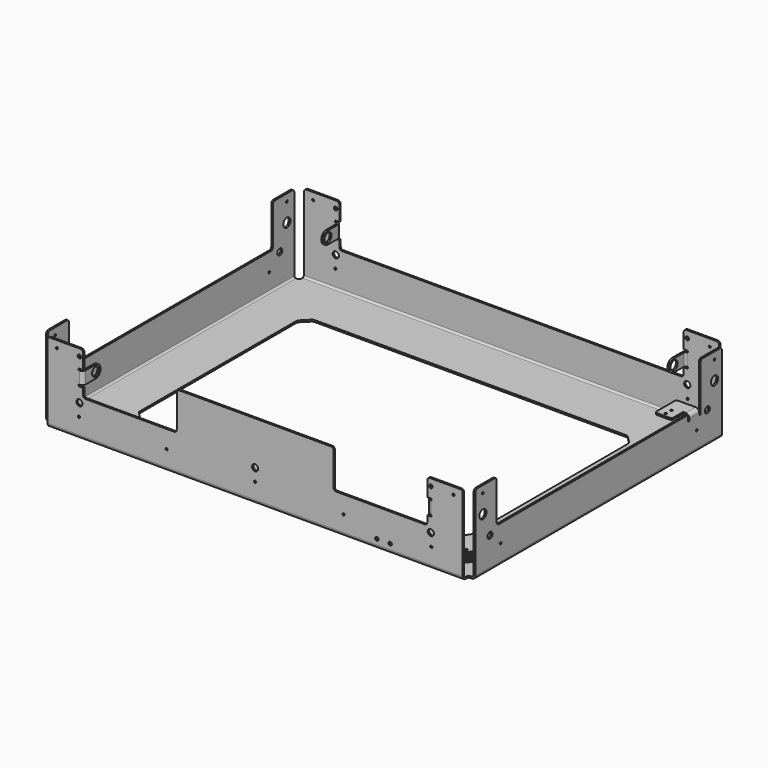
from build123d import *

# Parameters (mm, degrees)
PAD_DEPTH       = 2
SKETCH001_W     = 8
SKETCH001_H     = 8
POCKET_DEPTH    = 2.001
FILLET_R        = 2
SKETCH002_R     = 1.23
SKETCH002_R_2   = 5.05
SKETCH002_R_3   = 3.5
PAD001_DEPTH    = 2
SKETCH003_R     = 1.23
SKETCH003_R_2   = 3.5
SKETCH003_R_3   = 2
PAD002_DEPTH    = 2
FILLET001_R     = 3
POCKET001_DEPTH = 2.001
FILLET002_R     = 2
FILLET003_R     = 4
SKETCH005_W     = 177
SKETCH005_H     = 43
PAD003_DEPTH    = 2
FILLET004_R     = 3
SKETCH006_R     = 1.23
SKETCH006_R_2   = 3.5
SKETCH006_R_3   = 1.95
POCKET002_DEPTH = 5
SKETCH007_W     = 4
SKETCH007_H     = 2
POCKET003_DEPTH = 364.001
POCKET004_DEPTH = 364.001
SKETCH009_R     = 5.05
PAD004_DEPTH    = 2
SKETCH010_R     = 5.05
PAD005_DEPTH    = 2
FILLET005_R     = 4
FILLET006_R     = 2
POCKET005_DEPTH = 5
SKETCH012_R     = 1.23
PAD006_DEPTH    = 2
FILLET007_R     = 4
FILLET008_R     = 2
FILLET009_R     = 2
CHAMFER_SIZE    = 10
FILLET010_R     = 4


with BuildPart() as fillet001:
    # Sketch → Pad (new body)
    with BuildSketch(Plane.XY):
        Polygon((-242.5, 182), (0, 182), (0, 122), (-187.5, 122), (-187.5, 0), (-242.5, 0), align=None)
    extrude(amount=PAD_DEPTH)

    # Sketch001 → Pocket (cut, through all)
    with BuildSketch(Plane.XY.offset(2)):
        with Locations((-238.5, 178)):
            Rectangle(SKETCH001_W, SKETCH001_H)
    extrude(amount=-POCKET_DEPTH, mode=Mode.SUBTRACT)

    # Fillet
    fillet_edges = [fillet001.edges().sort_by_distance(p)[0] for p in [
        (-234.5, 174, 1),
    ]]
    fillet(fillet_edges, radius=FILLET_R)

    # Sketch002 → Pad001 (new body)
    with BuildSketch(Plane(origin=(-242.5, 0, 0), x_dir=(0, -1, 0), z_dir=(-1, 0, 0))):
        Polygon((-174, 0), (-174, 90), (-144, 90), (-144, 42), (0, 42), (0, 0), align=None)
        with Locations((-163.5, 82)):
            Circle(SKETCH002_R, mode=Mode.SUBTRACT)
        with Locations((-163.5, 61)):
            Circle(SKETCH002_R_2, mode=Mode.SUBTRACT)
        with Locations((-153.5, 36)):
            Circle(SKETCH002_R_3, mode=Mode.SUBTRACT)
        with Locations((-138.5, 22)):
            Circle(SKETCH002_R, mode=Mode.SUBTRACT)
    extrude(amount=-PAD001_DEPTH)

    # Sketch003 → Pad002 (new body)
    with BuildSketch(Plane(origin=(0, 182, 0), x_dir=(-1, 0, 0), z_dir=(0, 1, 0))):
        Polygon((234.5, 0), (234.5, 90), (194.5, 90), (194.5, 42), (0, 42), (0, 0), align=None)
        with Locations((199, 22)):
            Circle(SKETCH003_R, mode=Mode.SUBTRACT)
        with Locations((198.5, 36)):
            Circle(SKETCH003_R_2, mode=Mode.SUBTRACT)
        with Locations((224, 82)):
            Circle(SKETCH003_R, mode=Mode.SUBTRACT)
        with Locations((198.5, 82)):
            Circle(SKETCH003_R_3, mode=Mode.SUBTRACT)
    extrude(amount=-PAD002_DEPTH)

    # Fillet001
    fillet001_edges = [fillet001.edges().sort_by_distance(p)[0] for p in [
        (-194.5, 181, 42),
        (-194.5, 181, 90),
        (-234.5, 181, 90),
        (-241.5, 174, 90),
        (-241.5, 144, 42),
        (-241.5, 144, 90),
    ]]
    fillet(fillet001_edges, radius=FILLET001_R)


with BuildPart() as part_mirroring:
    # Part__Mirroring: instance of Fillet001
    add(fillet001.part.mirror(Plane(origin=(0, 0, 0), x_dir=(0, -1, 0), z_dir=(1, 0, 0))))


with BuildPart() as fusion:
    # Fusion base: copy of Fillet001
    add(fillet001.part)

    # Fusion: union Part__Mirroring
    add(part_mirroring.part)


with BuildPart() as part_mirroring001:
    # Part__Mirroring001: instance of Fusion
    add(fusion.part.mirror(Plane(origin=(0, 0, 0), x_dir=(1, 0, 0), z_dir=(0, 1, 0))))


with BuildPart() as fillet010:
    # Fusion001 base: copy of Fusion
    add(fusion.part)

    # Fusion001: union Part__Mirroring001
    add(part_mirroring001.part)

    # Sketch004 → Pocket001 (cut, through all)
    with BuildSketch(Plane.XY.offset(2)):
        with BuildLine():
            Line((168.56066, -165.06066), (195.56066, -138.06066))
            ThreePointArc((195.56066, -138.06066), (195.56066, -135.93934), (193.43934, -135.93934))
            Line((166.43934, -162.93934), (193.43934, -135.93934))
            ThreePointArc((166.43934, -162.93934), (166.43934, -165.06066), (168.56066, -165.06066))
        make_face()
        with BuildLine():
            Line((168.56066, -173.06066), (203.560666, -138.060654))
            ThreePointArc((203.560666, -138.060654), (203.560657, -135.939337), (201.43934, -135.93934))
            Line((166.43934, -170.93934), (201.43934, -135.93934))
            ThreePointArc((166.43934, -170.93934), (166.43934, -173.06066), (168.56066, -173.06066))
        make_face()
        with BuildLine():
            Line((174.43934, -170.93934), (209.43934, -135.93934))
            ThreePointArc((211.56066, -138.06066), (211.56066, -135.93934), (209.43934, -135.93934))
            Line((176.56066, -173.06066), (211.56066, -138.06066))
            ThreePointArc((174.43934, -170.93934), (174.43934, -173.06066), (176.56066, -173.06066))
        make_face()
        with BuildLine():
            Line((182.439339, -170.93934), (217.43934, -135.93934))
            ThreePointArc((219.560658, -138.060662), (219.560661, -135.939341), (217.43934, -135.93934))
            Line((184.56066, -173.060661), (219.560658, -138.060662))
            ThreePointArc((182.439339, -170.93934), (182.43934, -173.06066), (184.56066, -173.060661))
        make_face()
        with BuildLine():
            Line((190.439339, -170.939341), (225.43934, -135.93934))
            ThreePointArc((227.560661, -138.06066), (227.56066, -135.939339), (225.43934, -135.93934))
            Line((192.560661, -173.060659), (227.560661, -138.06066))
            ThreePointArc((190.439339, -170.939341), (190.439341, -173.060661), (192.560661, -173.060659))
        make_face()
        with BuildLine():
            Line((168.56066, -157.06066), (187.56066, -138.06066))
            ThreePointArc((187.56066, -138.06066), (187.56066, -135.939339), (185.439339, -135.93934))
            Line((166.439339, -154.93934), (185.439339, -135.93934))
            ThreePointArc((166.439339, -154.93934), (166.43934, -157.06066), (168.56066, -157.06066))
        make_face()
        with BuildLine():
            Line((198.43934, -170.939339), (226.43934, -142.93934))
            ThreePointArc((228.56066, -145.06066), (228.56066, -142.93934), (226.43934, -142.93934))
            Line((200.56066, -173.06066), (228.56066, -145.06066))
            ThreePointArc((198.43934, -170.939339), (198.43934, -173.06066), (200.56066, -173.06066))
        make_face()
        with BuildLine():
            Line((179.56065, -138.06067), (168.560661, -149.060659))
            ThreePointArc((166.43934, -146.939339), (166.43934, -149.06066), (168.560661, -149.060659))
            Line((177.43934, -135.939339), (166.43934, -146.939339))
            ThreePointArc((179.56065, -138.06067), (179.560665, -135.939345), (177.43934, -135.939339))
        make_face()
    extrude(amount=-POCKET001_DEPTH, mode=Mode.SUBTRACT)

    # Fillet002
    fillet002_edges = [fillet010.edges().sort_by_distance(p)[0] for p in [
        (-240.5, 0, 2),
        (0, -180, 2),
        (0, 180, 2),
        (240.5, 0, 2),
    ]]
    fillet(fillet002_edges, radius=FILLET002_R)

    # Fillet003
    fillet003_edges = [fillet010.edges().sort_by_distance(p)[0] for p in [
        (-242.5, 0, 0),
        (0, 182, 0),
        (0, -182, 0),
        (242.5, 0, 0),
    ]]
    fillet(fillet003_edges, radius=FILLET003_R)

    # Sketch005 → Pad003 (new body)
    with BuildSketch(Plane.XZ.offset(182)):
        with Locations((0, 63.5)):
            Rectangle(SKETCH005_W, SKETCH005_H)
    extrude(amount=-PAD003_DEPTH)

    # Fillet004
    fillet004_edges = [fillet010.edges().sort_by_distance(p)[0] for p in [
        (88.5, -181, 42),
        (88.5, -181, 85),
        (-88.5, -181, 85),
        (-88.5, -181, 42),
    ]]
    fillet(fillet004_edges, radius=FILLET004_R)

    # Sketch006 → Pocket002 (cut)
    with BuildSketch(Plane.XZ.offset(182)):
        with Locations((-100, 22)):
            Circle(SKETCH006_R)
        with Locations((100, 22)):
            Circle(SKETCH006_R)
        with Locations((0, 36)):
            Circle(SKETCH006_R_2)
        with Locations((0, 22)):
            Circle(SKETCH006_R)
        with Locations((137.5, 10)):
            Circle(SKETCH006_R_3)
        with Locations((152.5, 10)):
            Circle(SKETCH006_R_3)
    extrude(amount=-POCKET002_DEPTH, mode=Mode.SUBTRACT)

    # Sketch007 → Pocket003 (cut, through all)
    with BuildSketch(Plane.XZ.offset(182)):
        with Locations((-196.5, 69)):
            Rectangle(SKETCH007_W, SKETCH007_H)
        with Locations((-196.5, 53)):
            Rectangle(SKETCH007_W, SKETCH007_H)
        with Locations((196.5, 69)):
            Rectangle(SKETCH007_W, SKETCH007_H)
        with Locations((196.5, 53)):
            Rectangle(SKETCH007_W, SKETCH007_H)
    extrude(amount=-POCKET003_DEPTH, mode=Mode.SUBTRACT)

    # Sketch008 → Pocket004 (cut, through all)
    with BuildSketch(Plane.XZ.offset(182)):
        with BuildLine():
            ThreePointArc((-198.5, 70), (-199.5, 69), (-198.5, 68))
            Line((-198.5, 68), (-198.5, 70))
        make_face()
        with BuildLine():
            ThreePointArc((-198.5, 54), (-199.5, 53), (-198.5, 52))
            Line((-198.5, 52), (-198.5, 54))
        make_face()
        with BuildLine():
            ThreePointArc((198.5, 68), (199.5, 69), (198.5, 70))
            Line((198.5, 68), (198.5, 70))
        make_face()
        with BuildLine():
            Line((198.5, 52), (198.5, 54))
            ThreePointArc((198.5, 52), (199.5, 53), (198.5, 54))
        make_face()
    extrude(amount=-POCKET004_DEPTH, mode=Mode.SUBTRACT)

    # Sketch009 → Pad004 (new body)
    with BuildSketch(Plane.YZ.offset(-194.5)):
        with BuildLine():
            Line((-182, 68), (-164, 68))
            ThreePointArc((-164, 54), (-157, 61), (-164, 68))
            Line((-164, 54), (-182, 54))
            Line((-182, 54), (-182, 68))
        make_face()
        with Locations((-164, 61)):
            Circle(SKETCH009_R, mode=Mode.SUBTRACT)
        with BuildLine():
            Line((164, 68), (182, 68))
            Line((182, 68), (182, 54))
            Line((182, 54), (164, 54))
            ThreePointArc((164, 68), (157, 61), (164, 54))
        make_face()
        with Locations((164, 61)):
            Circle(SKETCH009_R, mode=Mode.SUBTRACT)
    extrude(amount=-PAD004_DEPTH)

    # Sketch010 → Pad005 (new body)
    with BuildSketch(Plane(origin=(194.5, 0, 0), x_dir=(0, -1, 0), z_dir=(-1, 0, 0))):
        with BuildLine():
            Line((182, 68), (164, 68))
            ThreePointArc((164, 68), (157, 61), (164, 54))
            Line((164, 54), (182, 54))
            Line((182, 54), (182, 68))
        make_face()
        with Locations((164, 61)):
            Circle(SKETCH010_R, mode=Mode.SUBTRACT)
        with BuildLine():
            Line((-182, 68), (-164, 68))
            ThreePointArc((-164, 54), (-157, 61), (-164, 68))
            Line((-164, 54), (-182, 54))
            Line((-182, 54), (-182, 68))
        make_face()
        with Locations((-164, 61)):
            Circle(SKETCH010_R, mode=Mode.SUBTRACT)
    extrude(amount=-PAD005_DEPTH)

    # Fillet005
    fillet005_edges = [fillet010.edges().sort_by_distance(p)[0] for p in [
        (-194.5, -182, 61),
        (-194.5, 182, 61),
        (194.5, 182, 61),
        (194.5, -182, 61),
    ]]
    fillet(fillet005_edges, radius=FILLET005_R)

    # Fillet006
    fillet006_edges = [fillet010.edges().sort_by_distance(p)[0] for p in [
        (196.5, 180, 61),
        (196.5, -180, 61),
        (-196.5, -180, 61),
        (-196.5, 180, 61),
    ]]
    fillet(fillet006_edges, radius=FILLET006_R)

    # Sketch011 → Pocket005 (cut)
    with BuildSketch(Plane.YZ.offset(242.5)):
        with BuildLine():
            Line((126, 42), (128, 42))
            Line((128, 42), (128, 36))
            ThreePointArc((126, 36), (127, 35), (128, 36))
            Line((126, 36), (126, 42))
        make_face()
        with BuildLine():
            Line((142, 46), (144, 46))
            Line((144, 46), (144, 36))
            ThreePointArc((142, 36), (143, 35), (144, 36))
            Line((142, 42), (142, 36))
            Line((141, 42), (142, 42))
            Line((141, 42), (141, 45))
            ThreePointArc((142, 46), (141.292893, 45.707107), (141, 45))
        make_face()
    extrude(amount=-POCKET005_DEPTH, mode=Mode.SUBTRACT)

    # Sketch012 → Pad006 (new body)
    with BuildSketch(Plane.XY.offset(42)):
        Polygon((242.5, 142), (216.5, 142), (216.5, 112), (235.5, 112), (235.5, 128), (242.5, 128), align=None)
        with Locations((225.5, 124)):
            Circle(SKETCH012_R, mode=Mode.SUBTRACT)
        with Locations((225.5, 116)):
            Circle(SKETCH012_R, mode=Mode.SUBTRACT)
    extrude(amount=-PAD006_DEPTH)

    # Fillet007
    fillet007_edges = [fillet010.edges().sort_by_distance(p)[0] for p in [
        (242.5, 135, 42),
    ]]
    fillet(fillet007_edges, radius=FILLET007_R)

    # Fillet008
    fillet008_edges = [fillet010.edges().sort_by_distance(p)[0] for p in [
        (240.5, 135, 40),
    ]]
    fillet(fillet008_edges, radius=FILLET008_R)

    # Fillet009
    fillet009_edges = [fillet010.edges().sort_by_distance(p)[0] for p in [
        (235.5, 112, 41),
        (216.5, 112, 41),
        (216.5, 142, 41),
    ]]
    fillet(fillet009_edges, radius=FILLET009_R)

    # Chamfer
    chamfer_edges = [fillet010.edges().sort_by_distance(p)[0] for p in [
        (-187.5, 122, 1),
        (-187.5, -122, 1),
        (187.5, -122, 1),
        (187.5, 122, 1),
    ]]
    chamfer(chamfer_edges, length=CHAMFER_SIZE)

    # Fillet010
    fillet010_edges = [fillet010.edges().sort_by_distance(p)[0] for p in [
        (187.5, 112, 1),
        (177.5, 122, 1),
        (-177.5, 122, 1),
        (-187.5, 112, 1),
        (-187.5, -112, 1),
        (-177.5, -122, 1),
        (177.5, -122, 1),
        (187.5, -112, 1),
    ]]
    fillet(fillet010_edges, radius=FILLET010_R)


solid = fillet010.part
